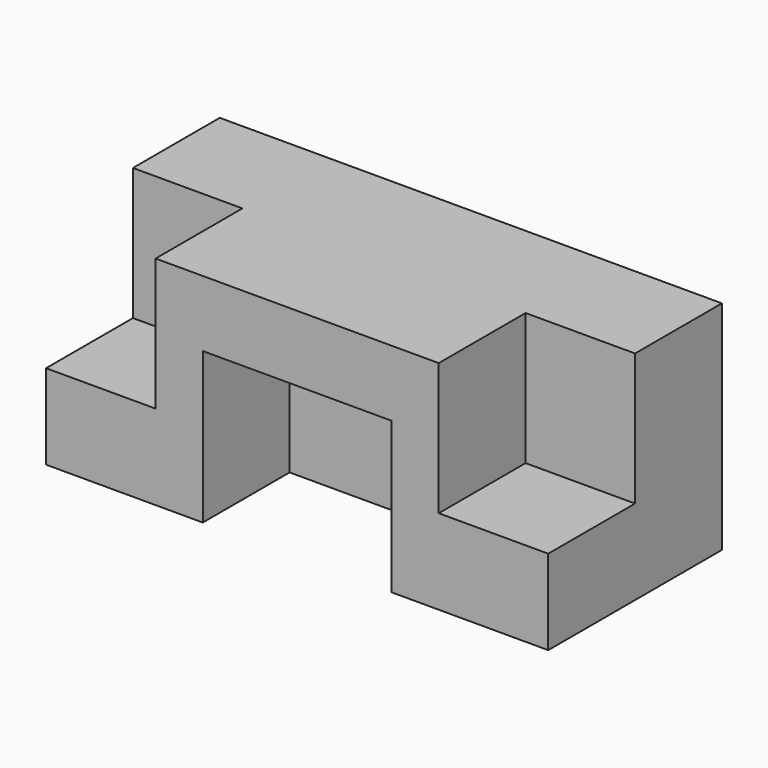
from build123d import *

# Parameters (mm, degrees)
F0_W     = 26.6
F0_H     = 11.5
F1_DEPTH = 11.5
F2_W     = 5.8
F2_H     = 7
F2_W_2   = 10
F2_H_2   = 8
F3_DEPTH = 5.751


with BuildPart() as f1:
    # F0 (on Top) → F1 (new body)
    with BuildSketch(Plane.XY):
        Rectangle(F0_W, F0_H)
    extrude(amount=F1_DEPTH)

    # F2 (on Front) → F3 (cut, through all)
    with BuildSketch(Plane.XZ):
        with Locations((-10.4, 8)):
            Rectangle(F2_W, F2_H)
        with Locations((10.4, 8)):
            Rectangle(F2_W, F2_H)
        with Locations((0, 4)):
            Rectangle(F2_W_2, F2_H_2)
    extrude(amount=F3_DEPTH, mode=Mode.SUBTRACT)


solid = f1.part
